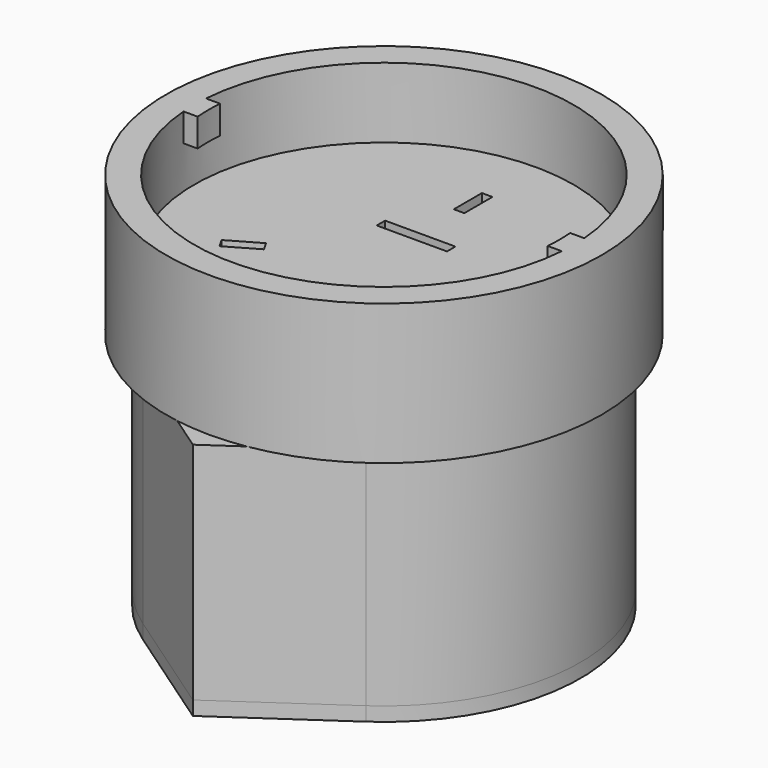
from build123d import *

# Parameters (mm, degrees)
F0_R      = 14
F0_R_2    = 12
F1_DEPTH  = 16
F3_DEPTH  = 2.5
F4_R      = 15.5
F5_DEPTH  = 5
F6_W      = 5
F6_H      = 0.75
F6_W_2    = 0.375
F6_H_2    = 2.5
F7_DEPTH  = 5.001
F8_R      = 15.5
F8_R_2    = 13.5
F9_DEPTH  = 5
F11_DEPTH = 2
F13_DEPTH = 16
F15_DEPTH = 1


with BuildPart() as f1:
    # F0 (on Top) → F1 (new body)
    with BuildSketch(Plane.XY):
        Circle(F0_R)
        Circle(F0_R_2, mode=Mode.SUBTRACT)
    extrude(amount=F1_DEPTH)

    # F2 (on Top) → F3 (join)
    with BuildSketch(Plane.XY):
        with BuildLine():
            Line((-11.2159206042, 0.875), (-11.968056442, 0.875))
            ThreePointArc((-11.968056442, 0.875), (-12, 0), (-11.968056442, -0.875))
            Line((-11.968056442, -0.875), (-11.2159206042, -0.875))
            ThreePointArc((-11.2159206042, -0.875), (-11.25, 0), (-11.2159206042, 0.875))
        make_face()
        with BuildLine():
            ThreePointArc((11.968056442, -0.875), (12, 0), (11.968056442, 0.875))
            Line((11.968056442, 0.875), (11.2159206042, 0.875))
            ThreePointArc((11.2159206042, 0.875), (11.25, 0), (11.2159206042, -0.875))
            Line((11.2159206042, -0.875), (11.968056442, -0.875))
        make_face()
    extrude(amount=F3_DEPTH)

    # F4 (on face) → F5 (join)
    with BuildSketch(Plane.XY.offset(16)):
        Circle(F4_R)
    extrude(amount=F5_DEPTH)

    # F6 (on face) → F7 (cut, through all)
    with BuildSketch(Plane(origin=(0, 0, 16), x_dir=(1, 0, 0), z_dir=(0, 0, -1))):
        with Locations((0, -2.8625)):
            Rectangle(F6_W, F6_H)
        with Locations((0.1875, -7.9375)):
            Rectangle(F6_W_2, F6_H_2)
        with Locations((-0.1875, -7.9375)):
            Rectangle(F6_W_2, F6_H_2)
        Polygon((5.6040448878, 3.6685095264), (5.7915448878, 3.34375), (7.9566083973, 4.59375), (7.7691083973, 4.9185095264), align=None)
        Polygon((7.9566083973, 4.59375), (5.7915448878, 3.34375), (5.9790448878, 3.0189904736), (8.1441083973, 4.2689904736), align=None)
        Polygon((-5.9790448878, 3.0189904736), (-5.7915448878, 3.34375), (-7.9566083973, 4.59375), (-8.1441083973, 4.2689904736), align=None)
        Polygon((-7.9566083973, 4.59375), (-5.7915448878, 3.34375), (-5.6040448878, 3.6685095264), (-7.7691083973, 4.9185095264), align=None)
    extrude(amount=-F7_DEPTH, mode=Mode.SUBTRACT)

    # F8 (on face) → F9 (join)
    with BuildSketch(Plane.XY.offset(21)):
        Circle(F8_R)
        Circle(F8_R_2, mode=Mode.SUBTRACT)
    extrude(amount=F9_DEPTH)

    # F10 (on face) → F11 (join)
    with BuildSketch(Plane.XY.offset(26)):
        with BuildLine():
            Line((-12.4599357944, 1), (-13.4629120178, 1))
            ThreePointArc((-13.4629120178, 1), (-13.5, 0), (-13.4629120178, -1))
            Line((-13.4629120178, -1), (-12.4599357944, -1))
            ThreePointArc((-12.4599357944, -1), (-12.5, 0), (-12.4599357944, 1))
        make_face()
        with BuildLine():
            Line((13.4629120178, 1), (12.4599357944, 1))
            ThreePointArc((12.4599357944, 1), (12.5, 0), (12.4599357944, -1))
            Line((12.4599357944, -1), (13.4629120178, -1))
            ThreePointArc((13.4629120178, -1), (13.5, 0), (13.4629120178, 1))
        make_face()
    extrude(amount=-F11_DEPTH)

    # F12 (on face) → F13 (join, through all)
    with BuildSketch(Plane(origin=(0, 0, 16), x_dir=(1, 0, 0), z_dir=(0, 0, -1))):
        with BuildLine():
            ThreePointArc((-7.9418300385, 11.5294117647), (0, 14), (7.9418300385, 11.5294117647))
            Line((7.9418300385, 11.5294117647), (0, 17))
            Line((0, 17), (-7.9418300385, 11.5294117647))
        make_face()
    extrude(amount=F13_DEPTH)

    # F14 (on face) → F15 (join)
    with BuildSketch(Plane(origin=(0, 0, 0), x_dir=(1, 0, 0), z_dir=(0, 0, -1))):
        with BuildLine():
            ThreePointArc((-7.9418300385, 11.5294117647), (0, -14), (7.9418300385, 11.5294117647))
            Line((7.9418300385, 11.5294117647), (0, 17))
            Line((0, 17), (-7.9418300385, 11.5294117647))
        make_face()
        with BuildLine():
            ThreePointArc((11.968056442, 0.875), (11.9920114515, 0.4377914432), (12, 0))
            ThreePointArc((12, 0), (11.9920114515, -0.4377914432), (11.968056442, -0.875))
            ThreePointArc((11.968056442, -0.875), (0, -12), (-11.968056442, -0.875))
            ThreePointArc((-11.968056442, -0.875), (-12, 0), (-11.968056442, 0.875))
            ThreePointArc((-11.968056442, 0.875), (0, 12), (11.968056442, 0.875))
        make_face(mode=Mode.SUBTRACT)
    extrude(amount=F15_DEPTH)


solid = f1.part
